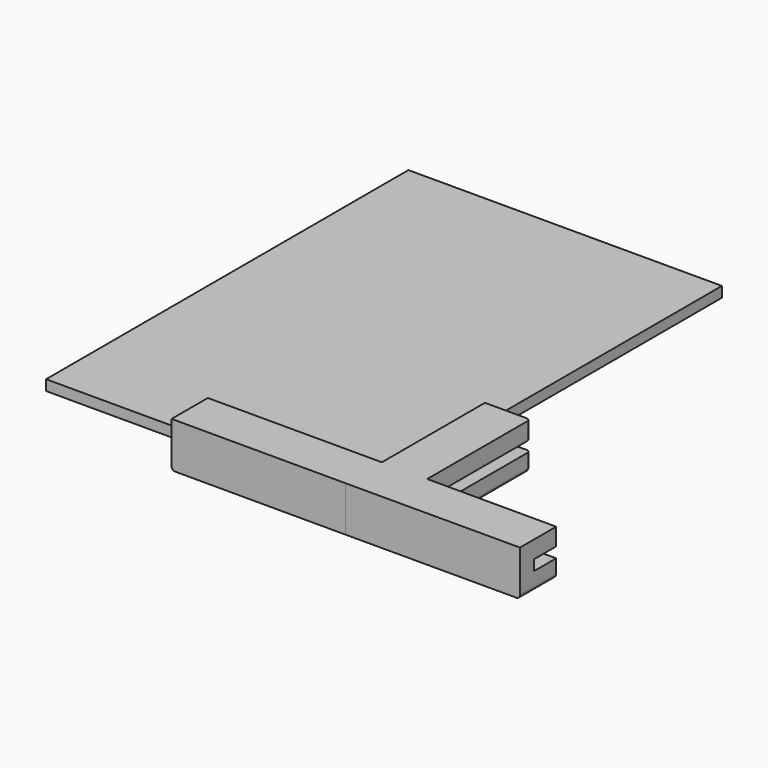
from build123d import *

# Parameters (mm, degrees)
SKETCH001_W  = 51.35091
SKETCH001_H  = 48.374203
PAD001_DEPTH = 3
PAD_DEPTH    = 13
FILLET_R     = 1
FILLET001_R  = 1
SKETCH003_W  = 90
SKETCH003_H  = 130
PAD002_DEPTH = 3


with BuildPart() as body001:
    # Sketch001 → Pad001 (new body)
    with BuildSketch(Plane.XY):
        with Locations((30.675455, 29.187101)):
            Rectangle(SKETCH001_W, SKETCH001_H)
    extrude(amount=PAD001_DEPTH)


with BuildPart() as body001_1:
    # Body001 placement: moved
    add(body001.part.moved(Location((0, 0, 5))))


with BuildPart() as cut:
    # Sketch → Pad (new body)
    with BuildSketch(Plane.XY):
        Polygon((0, 0), (50, 0.034546), (50, 13.034546), (12.971276, 13.034546), (12.971276, 50), (-0.028724, 50), (-0.028724, 13.034546), (-50, 13.034546), (-50, 0.034546), align=None)
    extrude(amount=PAD_DEPTH)

    # Fillet
    fillet_edges = [cut.edges().sort_by_distance(p)[0] for p in [
        (50, 6.534546, 0),
        (31.485638, 13.034546, 0),
        (12.971276, 31.517273, 0),
    ]]
    fillet(fillet_edges, radius=FILLET_R)

    # Fillet001
    fillet001_edges = [cut.edges().sort_by_distance(p)[0] for p in [
        (5.971276, 50, 0),
        (-0.028724, 31.517273, 0),
        (-25.014362, 13.034546, 0),
        (-50, 6.534546, 0),
    ]]
    fillet(fillet001_edges, radius=FILLET001_R)

    # Cut: cut Body001
    add(body001_1.part, mode=Mode.SUBTRACT)


with BuildPart() as body002:
    # Sketch003 → Pad002 (new body)
    with BuildSketch(Plane.XY):
        with Locations((-45, 65)):
            Rectangle(SKETCH003_W, SKETCH003_H)
    extrude(amount=PAD002_DEPTH)


with BuildPart() as body002_1:
    # Body002 placement: moved
    add(body002.part.moved(Location((0, 5, 5))))


solid = Compound([cut.part, body002_1.part])
